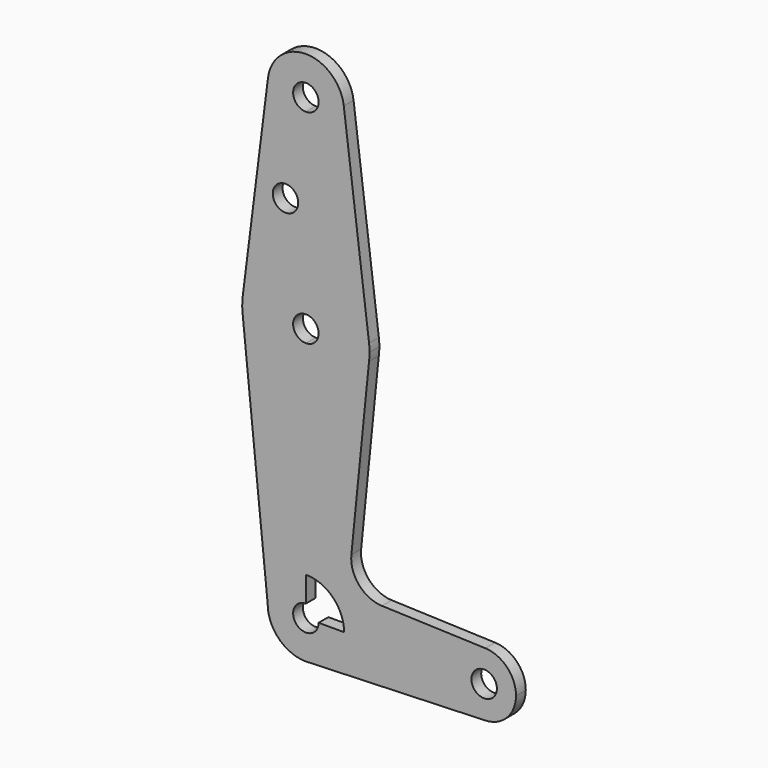
from build123d import *

# Parameters (mm, degrees)
F0_R     = 3.175
F1_DEPTH = 3.048


with BuildPart() as f1:
    # F0 (on Front) → F1 (new body)
    with BuildSketch(Plane.XZ):
        with BuildLine():
            ThreePointArc((3.175, 114.3), (-2.245064, 116.545064), (0, 111.125))
            ThreePointArc((0, 111.125), (2.245064, 112.054936), (3.175, 114.3))
        make_face()
        with BuildLine():
            ThreePointArc((0, 104.775), (6.735192, 107.564808), (9.525, 114.3))
            ThreePointArc((9.525, 114.3), (9.506305, 114.896483), (9.450293, 115.490625))
            ThreePointArc((9.450293, 115.490625), (0, 123.825), (-9.450293, 115.490625))
            ThreePointArc((-9.450293, 115.490625), (-7.14375, 107.999805), (0, 104.775))
        make_face()
        with BuildLine():
            ThreePointArc((3.175, 114.3), (2.245064, 112.054936), (0, 111.125))
            ThreePointArc((0, 111.125), (-2.245064, 116.545064), (3.175, 114.3))
        make_face(mode=Mode.SUBTRACT)
        with BuildLine():
            ThreePointArc((9.450293, 115.490625), (9.506305, 114.896483), (9.525, 114.3))
            ThreePointArc((9.525, 114.3), (6.735192, 107.564808), (0, 104.775))
            Line((0, 104.775), (0, 79.375))
            ThreePointArc((0, 79.375), (10.500326, 75.40625), (15.750488, 65.484375))
            Line((15.750488, 65.484375), (9.450293, 115.490625))
        make_face()
        with BuildLine():
            Line((0, 79.375), (0, 104.775))
            ThreePointArc((0, 104.775), (-7.14375, 107.999805), (-9.450293, 115.490625))
            Line((-9.450293, 115.490625), (-15.750488, 65.484375))
            ThreePointArc((-15.750488, 65.484375), (-10.500326, 75.40625), (0, 79.375))
        make_face()
        with Locations((-5.087454, 90.4875)):
            Circle(F0_R, mode=Mode.SUBTRACT)
        with BuildLine():
            ThreePointArc((15.875, 63.5), (15.843841, 64.494139), (15.750488, 65.484375))
            ThreePointArc((15.750488, 65.484375), (10.500326, 75.40625), (0, 79.375))
            Line((0, 79.375), (0, 66.675))
            ThreePointArc((0, 66.675), (2.245064, 65.745064), (3.175, 63.5))
            ThreePointArc((3.175, 63.5), (2.245064, 61.254936), (0, 60.325))
            Line((0, 60.325), (0, 47.625))
            ThreePointArc((0, 47.625), (10.482595, 51.578137), (15.744512, 61.468755))
            ThreePointArc((15.744512, 61.468755), (15.842345, 62.482284), (15.875, 63.5))
        make_face()
        with BuildLine():
            Line((0, 66.675), (0, 79.375))
            ThreePointArc((0, 79.375), (-10.500326, 75.40625), (-15.750488, 65.484375))
            ThreePointArc((-15.750488, 65.484375), (-15.873819, 63.693615), (-15.794203, 61.90038))
            ThreePointArc((-15.794203, 61.90038), (-10.644756, 51.7227), (0, 47.625))
            Line((0, 47.625), (0, 60.325))
            ThreePointArc((0, 60.325), (-3.175, 63.5), (0, 66.675))
        make_face()
        with BuildLine():
            ThreePointArc((0, 47.625), (-10.644756, 51.7227), (-15.794203, 61.90038))
            Line((-15.794203, 61.90038), (-9.525, 0))
            ThreePointArc((-9.525, 0), (-6.735192, 6.735192), (0, 9.525))
            Line((0, 9.525), (0, 47.625))
        make_face()
        with BuildLine():
            Line((11.338887, 17.589166), (15.744512, 61.468755))
            ThreePointArc((15.744512, 61.468755), (10.482595, 51.578137), (0, 47.625))
            Line((0, 47.625), (0, 9.525))
            ThreePointArc((0, 9.525), (6.735192, 6.735192), (9.525, 0))
            Line((9.525, 0), (36.5125, 0))
            ThreePointArc((36.5125, 0), (38.93809, 5.711633), (44.732405, 7.932475))
            Line((44.732405, 7.932475), (18.966459, 8.849772))
            ThreePointArc((18.966459, 8.849772), (13.259597, 11.567229), (11.338887, 17.589166))
        make_face()
        with BuildLine():
            ThreePointArc((0, 9.525), (-6.735192, 6.735192), (-9.525, 0))
            ThreePointArc((-9.525, 0), (-6.735192, -6.735192), (0, -9.525))
            Line((0, -9.525), (0.677344, -9.500886))
            ThreePointArc((0.677344, -9.500886), (6.970557, -6.491299), (9.525, 0))
            Line((9.525, 0), (3.175, 0))
            ThreePointArc((3.175, 0), (-2.245064, -2.245064), (0, 3.175))
            Line((0, 3.175), (0, 9.525))
        make_face()
        with BuildLine():
            Line((0.677344, -9.500886), (0, -9.525))
            ThreePointArc((0, -9.525), (0.338886, -9.51897), (0.677344, -9.500886))
        make_face()
        with BuildLine():
            Line((36.5125, 0), (9.525, 0))
            ThreePointArc((9.525, 0), (6.970557, -6.491299), (0.677344, -9.500886))
            Line((0.677344, -9.500886), (44.732405, -7.932475))
            ThreePointArc((44.732405, -7.932475), (38.93809, -5.711633), (36.5125, 0))
        make_face()
        with BuildLine():
            ThreePointArc((47.625, 0), (44.45, 3.175), (41.275, 0))
            ThreePointArc((41.275, 0), (44.45, -3.175), (47.625, 0))
        make_face()
        with BuildLine():
            ThreePointArc((52.3875, 0), (50.161633, 5.51191), (44.732405, 7.932475))
            ThreePointArc((44.732405, 7.932475), (38.93809, 5.711633), (36.5125, 0))
            ThreePointArc((36.5125, 0), (38.93809, -5.711633), (44.732405, -7.932475))
            ThreePointArc((44.732405, -7.932475), (50.161633, -5.51191), (52.3875, 0))
        make_face()
        with BuildLine():
            ThreePointArc((47.625, 0), (44.45, -3.175), (41.275, 0))
            ThreePointArc((41.275, 0), (44.45, 3.175), (47.625, 0))
        make_face(mode=Mode.SUBTRACT)
    extrude(amount=F1_DEPTH)


solid = f1.part
